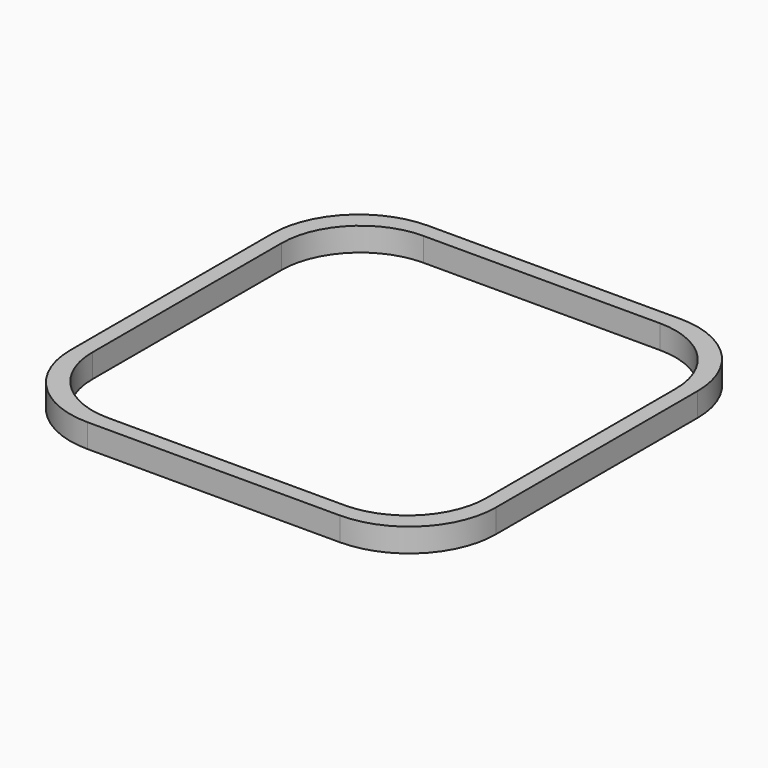
from build123d import *

# Parameters (mm, degrees)
PAD_DEPTH    = 6
POCKET_DEPTH = 28


with BuildPart() as part:
    # Sketch → Pad (new body)
    with BuildSketch(Plane.XY):
        with BuildLine():
            Line((-32, 54), (32, 54))
            ThreePointArc((54, 32), (47.556349, 47.556349), (32, 54))
            Line((54, 32), (54, -32))
            ThreePointArc((32, -54), (47.556349, -47.556349), (54, -32))
            Line((32, -54), (-32, -54))
            ThreePointArc((-54, -32), (-47.556349, -47.556349), (-32, -54))
            Line((-54, -32), (-54, 32))
            ThreePointArc((-32, 54), (-47.556349, 47.556349), (-54, 32))
        make_face()
    extrude(amount=PAD_DEPTH)

    # Sketch001 (on Face10 of Pad) → Pocket (cut)
    with BuildSketch(Plane.XY.offset(6)):
        with BuildLine():
            Line((-30, 50), (30, 50))
            ThreePointArc((50, 30), (44.142136, 44.142136), (30, 50))
            Line((50, 30), (50, -30))
            ThreePointArc((30, -50), (44.142136, -44.142136), (50, -30))
            Line((30, -50), (-30, -50))
            ThreePointArc((-50, -30), (-44.142136, -44.142136), (-30, -50))
            Line((-50, -30), (-50, 30))
            ThreePointArc((-30, 50), (-44.142136, 44.142136), (-50, 30))
        make_face()
    extrude(amount=-POCKET_DEPTH, mode=Mode.SUBTRACT)


solid = part.part
